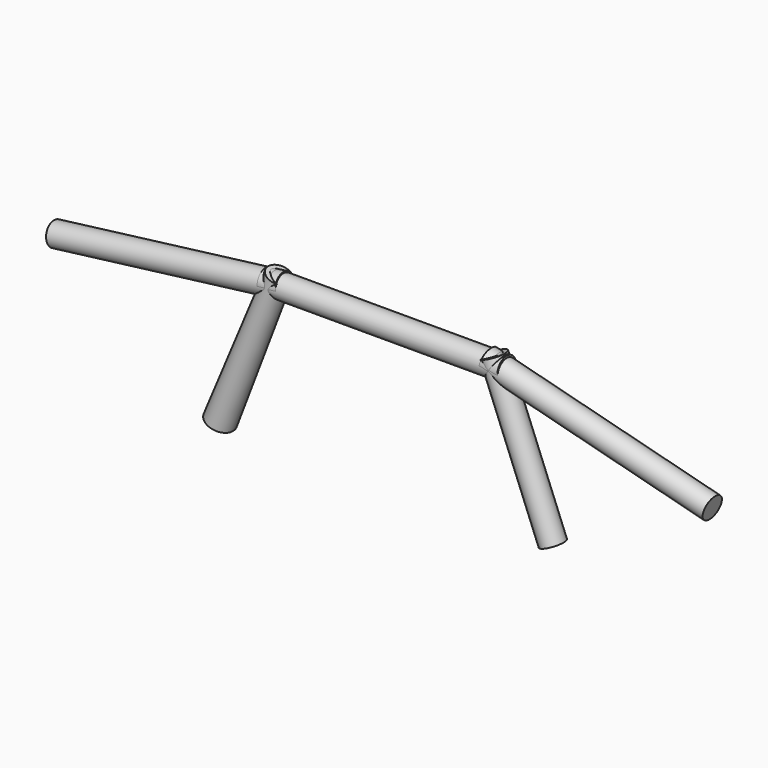
from build123d import *

# Parameters (mm, degrees)
F3_R  = 127
F4_R  = 127
F8_R  = 152.4
F9_R  = 127
F14_R = 127
F13_R = 127
F18_R = 127
F19_R = 127
F24_R = 127
F23_R = 127


with BuildPart() as f5:
    # F3 (on line) → F5 section 0
    with BuildSketch(Plane(origin=(-3619.4249988375, 0, -456.0046874273), x_dir=(0, -1, 0), z_dir=(-0.9921567416, 0, -0.125))):
        with Locations((0, 152.4)):
            Circle(F3_R)
    # F4 (on line) → F5 section 1
    with BuildSketch(Plane(origin=(-1099.3468750484, 0, -138.5046874273), x_dir=(0, -1, 0), z_dir=(-0.9921567416, 0, -0.125))):
        with Locations((0, 152.4)):
            Circle(F4_R)
    loft()


with BuildPart() as f10:
    # F8 (on line) → F10 section 0
    with BuildSketch(Plane(origin=(-777.7655172414, 0, -1944.4137931034), x_dir=(0.9284766909, 0, -0.3713906764), z_dir=(-0.3713906764, 0, -0.9284766909))):
        with Locations((-1131.9987815273, 0)):
            Circle(F8_R)
    # F9 (on line) → F10 section 1
    with BuildSketch(Plane(origin=(-130.4322245238, 0, -326.0805613095), x_dir=(0.9284766909, 0, -0.3713906764), z_dir=(-0.3713906764, 0, -0.9284766909))):
        with Locations((-1131.9987815273, 0)):
            Circle(F9_R)
    loft()


with BuildPart() as f15:
    # F14 (on line) → F15 section 0
    with BuildSketch(Plane.YZ.offset(-1320.8)):
        Circle(F14_R)
    # F13 (on line) → F15 section 1
    with BuildSketch(Plane.YZ.offset(1320.8)):
        Circle(F13_R)
    loft()


with BuildPart() as f20:
    # F18 (on line) → F20 section 0
    with BuildSketch(Plane(origin=(3503.970647848, 0, -904.721330981), x_dir=(0, 1, 0), z_dir=(0.9682458366, 0, -0.25))):
        with Locations((0, 304.8)):
            Circle(F18_R)
    # F19 (on line) → F20 section 1
    with BuildSketch(Plane(origin=(1044.6262230063, 0, -269.721330981), x_dir=(0, 1, 0), z_dir=(0.9682458366, 0, -0.25))):
        with Locations((0, 304.8)):
            Circle(F19_R)
    loft()


with BuildPart() as f25:
    # F24 (on line) → F25 section 0
    with BuildSketch(Plane(origin=(777.7655172414, 0, -1944.4137931034), x_dir=(0.9284766909, 0, 0.3713906764), z_dir=(0.3713906764, 0, -0.9284766909))):
        with Locations((1131.9987815273, 0)):
            Circle(F24_R)
    # F23 (on line) → F25 section 1
    with BuildSketch(Plane(origin=(130.4322245238, 0, -326.0805613095), x_dir=(0.9284766909, 0, 0.3713906764), z_dir=(0.3713906764, 0, -0.9284766909))):
        with Locations((1131.9987815273, 0)):
            Circle(F23_R)
    loft()


solid = Compound([f5.part, f10.part, f15.part, f20.part, f25.part])
